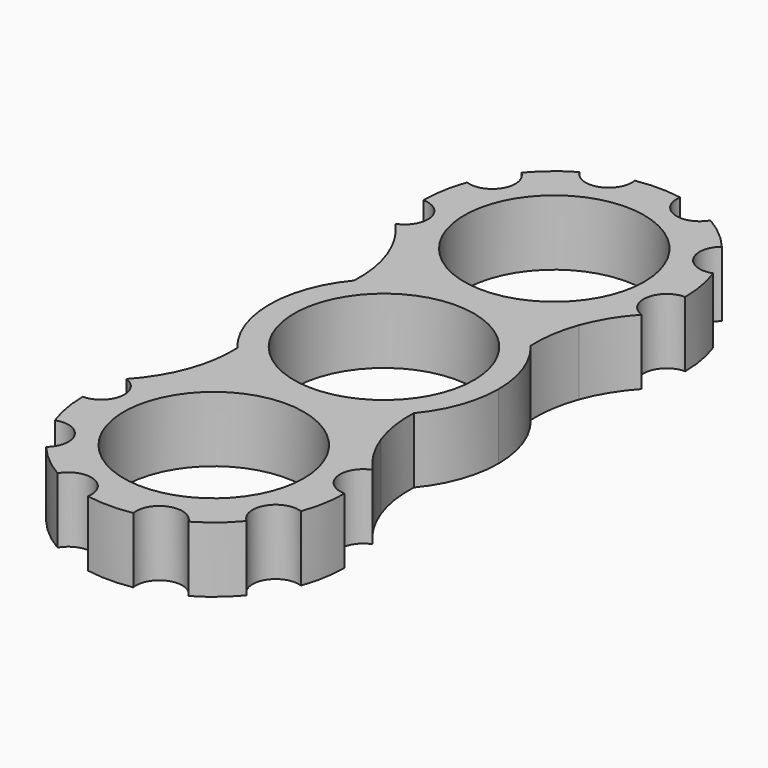
from build123d import *

# Parameters (mm, degrees)
F0_R     = 11
F1_DEPTH = 8


with BuildPart() as f1:
    # F0 (on Top) → F1 (new body)
    with BuildSketch(Plane.XY):
        with BuildLine():
            ThreePointArc((-10.781154, 8.931222), (0, 14), (10.781154, 8.931222))
            ThreePointArc((10.781154, 8.931222), (10.950081, 12.071765), (11.730086, 15.11859))
            ThreePointArc((11.730086, 15.11859), (13.112032, 17.988443), (15.035082, 20.527678))
            ThreePointArc((15.035082, 20.527678), (13.221629, 23.66867), (16, 26))
            ThreePointArc((16, 26), (15.756924, 28.778371), (15.035082, 31.472322))
            ThreePointArc((15.035082, 31.472322), (11.626906, 32.712797), (12.256711, 36.284602))
            ThreePointArc((12.256711, 36.284602), (10.284602, 38.256711), (8, 39.856406))
            ThreePointArc((8, 39.856406), (4.591824, 38.615932), (2.778371, 41.756924))
            ThreePointArc((2.778371, 41.756924), (0, 42), (-2.778371, 41.756924))
            ThreePointArc((-2.778371, 41.756924), (-4.591824, 38.615932), (-8, 39.856406))
            ThreePointArc((-8, 39.856406), (-10.284602, 38.256711), (-12.256711, 36.284602))
            ThreePointArc((-12.256711, 36.284602), (-11.626906, 32.712797), (-15.035082, 31.472322))
            ThreePointArc((-15.035082, 31.472322), (-15.756924, 28.778371), (-16, 26))
            ThreePointArc((-16, 26), (-13.221629, 23.66867), (-15.035082, 20.527678))
            ThreePointArc((-15.035082, 20.527678), (-13.112032, 17.988443), (-11.730086, 15.11859))
            ThreePointArc((-11.730086, 15.11859), (-10.950081, 12.071765), (-10.781154, 8.931222))
        make_face()
        with Locations((0, 26)):
            Circle(F0_R, mode=Mode.SUBTRACT)
        with BuildLine():
            ThreePointArc((10.781154, -8.931222), (13.170728, -4.74678), (14, 0))
            ThreePointArc((14, 0), (13.170728, 4.74678), (10.781154, 8.931222))
            ThreePointArc((10.781154, 8.931222), (0, 14), (-10.781154, 8.931222))
            ThreePointArc((-10.781154, 8.931222), (-14, 0), (-10.781154, -8.931222))
            ThreePointArc((-10.781154, -8.931222), (0, -14), (10.781154, -8.931222))
        make_face()
        Circle(F0_R, mode=Mode.SUBTRACT)
        with BuildLine():
            ThreePointArc((11.730086, -15.11859), (10.950081, -12.071765), (10.781154, -8.931222))
            ThreePointArc((10.781154, -8.931222), (0, -14), (-10.781154, -8.931222))
            ThreePointArc((-10.781154, -8.931222), (-10.950081, -12.071765), (-11.730086, -15.11859))
            ThreePointArc((-11.730086, -15.11859), (-13.112032, -17.988443), (-15.035082, -20.527678))
            ThreePointArc((-15.035082, -20.527678), (-13.221629, -23.66867), (-16, -26))
            ThreePointArc((-16, -26), (-15.756924, -28.778371), (-15.035082, -31.472322))
            ThreePointArc((-15.035082, -31.472322), (-11.626906, -32.712797), (-12.256711, -36.284602))
            ThreePointArc((-12.256711, -36.284602), (-10.284602, -38.256711), (-8, -39.856406))
            ThreePointArc((-8, -39.856406), (-4.591824, -38.615932), (-2.778371, -41.756924))
            ThreePointArc((-2.778371, -41.756924), (0, -42), (2.778371, -41.756924))
            ThreePointArc((2.778371, -41.756924), (4.591824, -38.615932), (8, -39.856406))
            ThreePointArc((8, -39.856406), (10.284602, -38.256711), (12.256711, -36.284602))
            ThreePointArc((12.256711, -36.284602), (11.626906, -32.712797), (15.035082, -31.472322))
            ThreePointArc((15.035082, -31.472322), (15.756924, -28.778371), (16, -26))
            ThreePointArc((16, -26), (13.221629, -23.66867), (15.035082, -20.527678))
            ThreePointArc((15.035082, -20.527678), (13.112032, -17.988443), (11.730086, -15.11859))
        make_face()
        with Locations((0, -26)):
            Circle(F0_R, mode=Mode.SUBTRACT)
    extrude(amount=F1_DEPTH)


solid = f1.part
